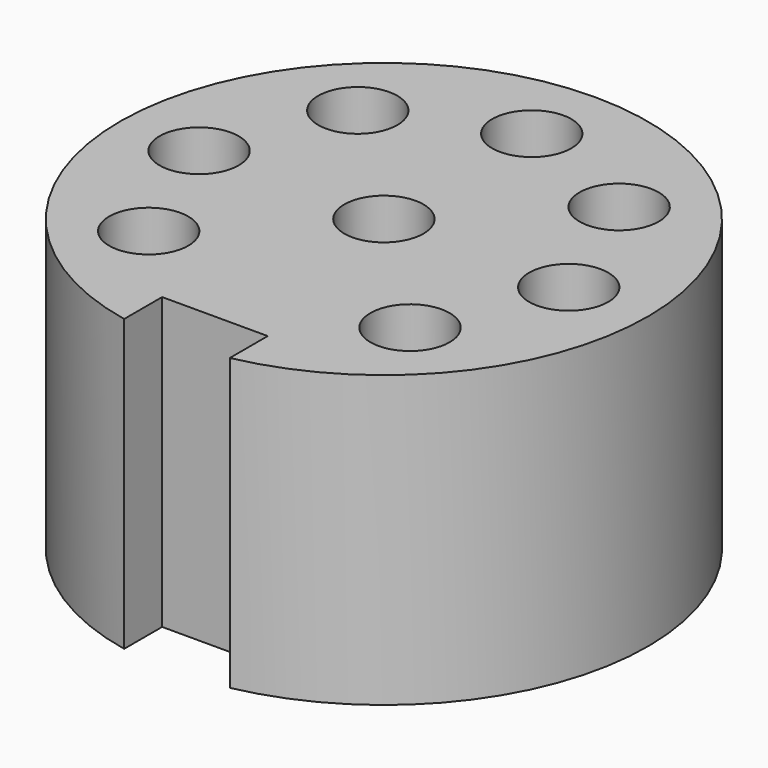
from build123d import *

# Parameters (mm, degrees)
F0_R     = 6.35
F1_DEPTH = 6.985
F2_R     = 0.9525
F3_DEPTH = 6.986
F5_DEPTH = 6.986


with BuildPart() as f1:
    # F0 (on Top) → F1 (new body)
    with BuildSketch(Plane.XY):
        Circle(F0_R)
    extrude(amount=F1_DEPTH)

    # F2 (on face) → F3 (cut, through all)
    with BuildSketch(Plane.XY.offset(6.985)):
        with Locations((0, 4.445)):
            Circle(F2_R)
        with Locations((3.14309, 3.14309)):
            Circle(F2_R)
        with Locations((3.14309, -3.14309)):
            Circle(F2_R)
        with Locations((-3.14309, 3.14309)):
            Circle(F2_R)
        with Locations((-3.14309, -3.14309)):
            Circle(F2_R)
        with Locations((-4.445, 0)):
            Circle(F2_R)
        with Locations((4.445, 0)):
            Circle(F2_R)
        Circle(F2_R)
    extrude(amount=-F3_DEPTH, mode=Mode.SUBTRACT)

    # F4 (on face) → F5 (cut, through all)
    with BuildSketch(Plane.XY.offset(6.985)):
        with BuildLine():
            Line((-1.27, -5.08), (-1.27, -6.221704))
            ThreePointArc((-1.27, -6.221704), (0, -6.35), (1.27, -6.221704))
            Line((1.27, -6.221704), (1.27, -5.08))
            Line((1.27, -5.08), (-1.27, -5.08))
        make_face()
    extrude(amount=-F5_DEPTH, mode=Mode.SUBTRACT)


solid = f1.part
